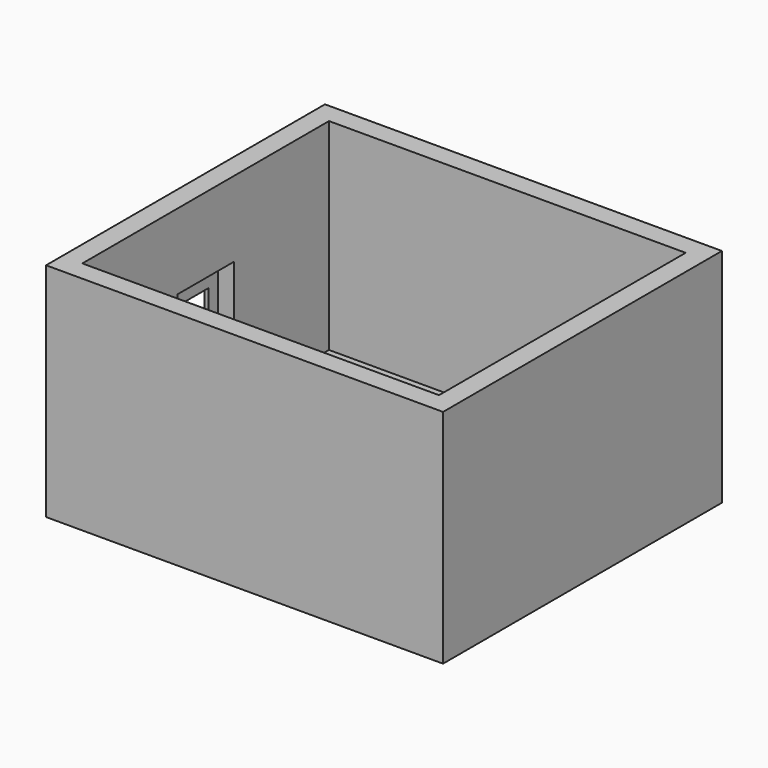
from build123d import *

# Parameters (mm, degrees)
SKETCH001_W     = 197
SKETCH001_H     = 173
PAD_DEPTH       = 110
SKETCH_W        = 177
SKETCH_H        = 153
POCKET_DEPTH    = 100
SKETCH002_W     = 23.5
SKETCH002_H     = 12
POCKET001_DEPTH = 20
SKETCH003_W     = 35
SKETCH003_H     = 35
POCKET002_DEPTH = 8


with BuildPart() as part:
    # Sketch001 → Pad (new body)
    with BuildSketch(Plane.XY):
        Rectangle(SKETCH001_W, SKETCH001_H)
    extrude(amount=PAD_DEPTH)

    # Sketch (on Face6 of Pad) → Pocket (cut)
    with BuildSketch(Plane.XY.offset(110)):
        Rectangle(SKETCH_W, SKETCH_H)
    extrude(amount=-POCKET_DEPTH, mode=Mode.SUBTRACT)

    # Sketch002 (on Face2 of Pocket) → Pocket001 (cut)
    with BuildSketch(Plane(origin=(-98.5, 0, 0), x_dir=(0, -1, 0), z_dir=(-1, 0, 0))):
        with Locations((0, 54.75)):
            Rectangle(SKETCH002_W, SKETCH002_H)
    extrude(amount=-POCKET001_DEPTH, mode=Mode.SUBTRACT)

    # Sketch003 (on Face11 of Pocket001) → Pocket002 (cut)
    with BuildSketch(Plane.YZ.offset(-88.5)):
        with Locations((0, 55)):
            Rectangle(SKETCH003_W, SKETCH003_H)
    extrude(amount=-POCKET002_DEPTH, mode=Mode.SUBTRACT)


solid = part.part
